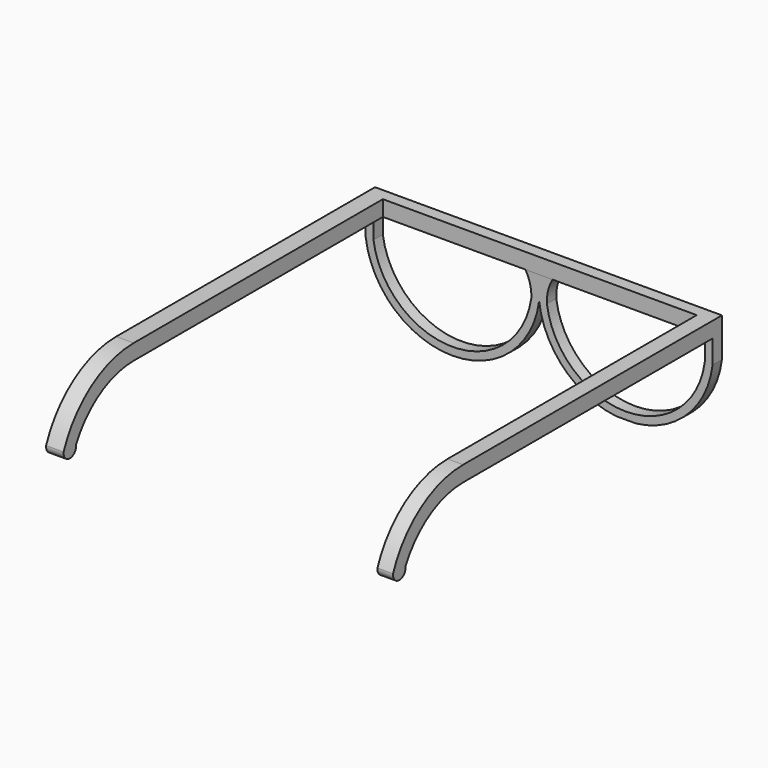
from build123d import *

# Parameters (mm, degrees)
F1_DEPTH = 3.81
F3_DEPTH = 113.03
F4_W     = 102.2572831413
F4_H     = 63.9604873323
F4_H_2   = 99.7172831413
F5_DEPTH = 76.2
F6_DEPTH = 1.778


with BuildPart() as f1:
    # F0 (on Front) → F1 (new body)
    with BuildSketch(Plane.XZ):
        with BuildLine():
            Line((-61.7348178759, 19.6423271978), (-64.2748178759, 19.6423271978))
            Line((-64.2748178759, 19.6423271978), (-64.2748178759, 17.1023271978))
            Line((-64.2748178759, 17.1023271978), (-64.2748178759, 6.9423271978))
            ThreePointArc((-64.2748178759, 6.9423271978), (-54.844956833, -10.8368491458), (-36.0173178759, -17.9460967888))
            ThreePointArc((-36.0173178759, -17.9460967888), (-17.1896789189, -10.8368491458), (-7.7598178759, 6.9423271978))
            ThreePointArc((-7.7598178759, 6.9423271978), (0.406829165, -9.8369400067), (17.212230035, -17.9496728022))
            Line((17.212230035, -17.9496728022), (20.4976821241, -17.9496728022))
            Line((20.4976821241, -17.9496728022), (23.7831342132, -17.9496728022))
            ThreePointArc((23.7831342132, -17.9496728022), (40.5885350832, -9.8369400067), (48.7551821241, 6.9423271978))
            Line((48.7551821241, 6.9423271978), (48.7551821241, 17.1023271978))
            Line((48.7551821241, 17.1023271978), (48.7551821241, 19.6423271978))
            Line((48.7551821241, 19.6423271978), (46.2151821241, 19.6423271978))
            Line((46.2151821241, 19.6423271978), (-61.7348178759, 19.6423271978))
        make_face()
        with BuildLine():
            ThreePointArc((46.2151821241, 6.9423271978), (20.4976821241, -15.5999571068), (-5.2198178759, 6.9423271978))
            ThreePointArc((-5.2198178759, 6.9423271978), (-4.3618373454, 12.4360262368), (-1.3381814351, 17.1023271978))
            Line((-1.3381814351, 17.1023271978), (41.7701821241, 17.1023271978))
            ThreePointArc((41.7701821241, 17.1023271978), (44.9132717665, 15.8004168402), (46.2151821241, 12.6573271978))
            Line((46.2151821241, 12.6573271978), (46.2151821241, 6.9423271978))
        make_face(mode=Mode.SUBTRACT)
        with BuildLine():
            ThreePointArc((-14.3130178759, 17.1023271978), (-11.2183816966, 12.4521014886), (-10.2998178759, 6.9423271978))
            ThreePointArc((-10.2998178759, 6.9423271978), (-36.010114835, -15.409671479), (-61.7348178759, 6.9257458672))
            Line((-61.7348178759, 6.9257458672), (-61.7348178759, 12.6573271978))
            ThreePointArc((-61.7348178759, 12.6573271978), (-60.4329075183, 15.8004168402), (-57.2898178759, 17.1023271978))
            Line((-57.2898178759, 17.1023271978), (-14.3130178759, 17.1023271978))
        make_face(mode=Mode.SUBTRACT)
    extrude(amount=F1_DEPTH)

    # F2 (on face) → F3 (join)
    with BuildSketch(Plane.YZ.offset(48.7551821241)):
        with BuildLine():
            Line((-3.81, 14.5623271978), (-3.81, 19.6423271978))
            Line((-3.81, 19.6423271978), (-105.41, 19.6423271978))
            ThreePointArc((-105.41, 19.6423271978), (-122.7306756991, 14.2570441707), (-133.9442287254, 0))
            ThreePointArc((-133.9442287254, 0), (-131.4042287254, -2.8934895881), (-128.8642287254, 0))
            ThreePointArc((-128.8642287254, 0), (-119.2136428029, 10.6256409156), (-105.41, 14.5623271978))
            Line((-105.41, 14.5623271978), (-3.81, 14.5623271978))
        make_face()
    extrude(amount=-F3_DEPTH)

    # F4 (on face) → F5 (cut)
    with BuildSketch(Plane.XY.offset(19.6423271978)):
        with Locations((-7.4534594466, -137.3902436662)):
            Rectangle(F4_W, F4_H)
        with Locations((-7.4534594466, -55.5513584293)):
            Rectangle(F4_W, F4_H_2)
    extrude(amount=-F5_DEPTH, mode=Mode.SUBTRACT)

    # F6 (cut): a face of the model
    f6_faces = [f1.faces().sort_by_distance(p)[0] for p in [
        (-7.4534594466, -5.6927168587, 17.1023271978),
    ]]
    extrude(f6_faces, amount=-F6_DEPTH, mode=Mode.SUBTRACT)


solid = f1.part
